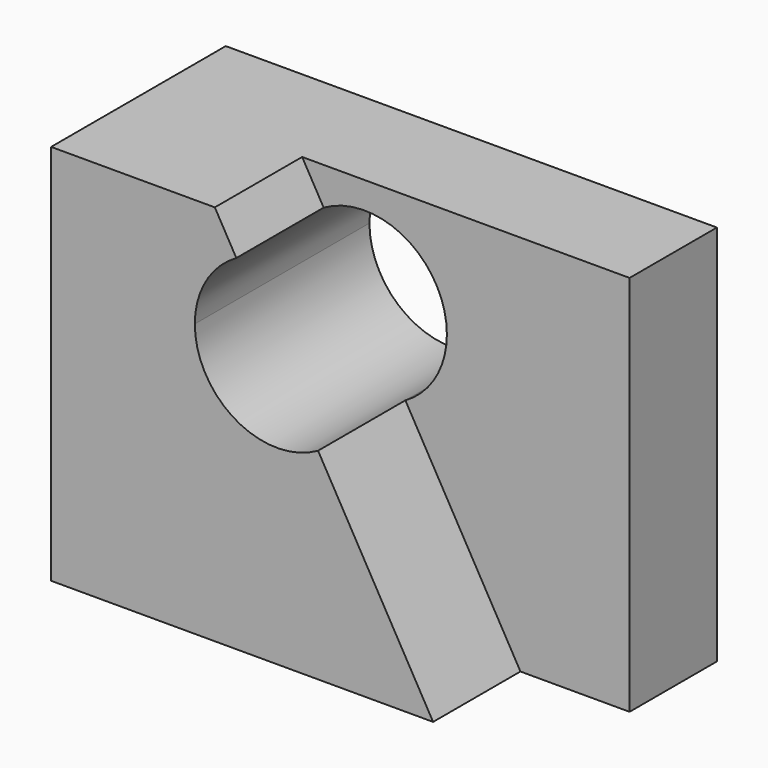
from build123d import *

# Parameters (mm, degrees)
F0_W     = 57.15
F0_H     = 44.45
F1_DEPTH = 25.4
F3_DEPTH = 25.401
F5_DEPTH = 12.7


with BuildPart() as f1:
    # F0 (on Front) → F1 (new body)
    with BuildSketch(Plane.XZ):
        with Locations((28.575, 22.225)):
            Rectangle(F0_W, F0_H)
    extrude(amount=F1_DEPTH)

    # F2 (on face) → F3 (cut, through all)
    with BuildSketch(Plane.XZ.offset(25.4)):
        with BuildLine():
            ThreePointArc((35.892886882, 31.75), (31.1184848556, 40.0408067571), (21.5512819933, 40.0727565117))
            Line((21.5512819933, 40.0727565117), (26.3071428571, 31.75))
            Line((26.3071428571, 31.75), (35.892886882, 31.75))
        make_face()
        with BuildLine():
            Line((26.3071428571, 31.75), (21.5512819933, 40.0727565117))
            ThreePointArc((21.5512819933, 40.0727565117), (18.0163361, 36.5613419984), (16.7213988323, 31.75))
            Line((16.7213988323, 31.75), (26.3071428571, 31.75))
        make_face()
        with BuildLine():
            Line((31.063003721, 23.4272434883), (26.3071428571, 31.75))
            Line((26.3071428571, 31.75), (16.7213988323, 31.75))
            ThreePointArc((16.7213988323, 31.75), (21.4958008587, 23.4591932429), (31.063003721, 23.4272434883))
        make_face()
        with BuildLine():
            Line((35.892886882, 31.75), (26.3071428571, 31.75))
            Line((26.3071428571, 31.75), (31.063003721, 23.4272434883))
            ThreePointArc((31.063003721, 23.4272434883), (34.5979496143, 26.9386580016), (35.892886882, 31.75))
        make_face()
    extrude(amount=-F3_DEPTH, mode=Mode.SUBTRACT)

    # F4 (on face) → F5 (cut)
    with BuildSketch(Plane.XZ.offset(25.4)):
        with BuildLine():
            Line((57.15, 44.45), (19.05, 44.45))
            Line((19.05, 44.45), (21.5512819933, 40.0727565117))
            ThreePointArc((21.5512819933, 40.0727565117), (31.1184848556, 40.0408067571), (35.892886882, 31.75))
            ThreePointArc((35.892886882, 31.75), (34.5979496143, 26.9386580016), (31.063003721, 23.4272434883))
            Line((31.063003721, 23.4272434883), (44.45, 0))
            Line((44.45, 0), (57.15, 0))
            Line((57.15, 0), (57.15, 44.45))
        make_face()
    extrude(amount=-F5_DEPTH, mode=Mode.SUBTRACT)


solid = f1.part
